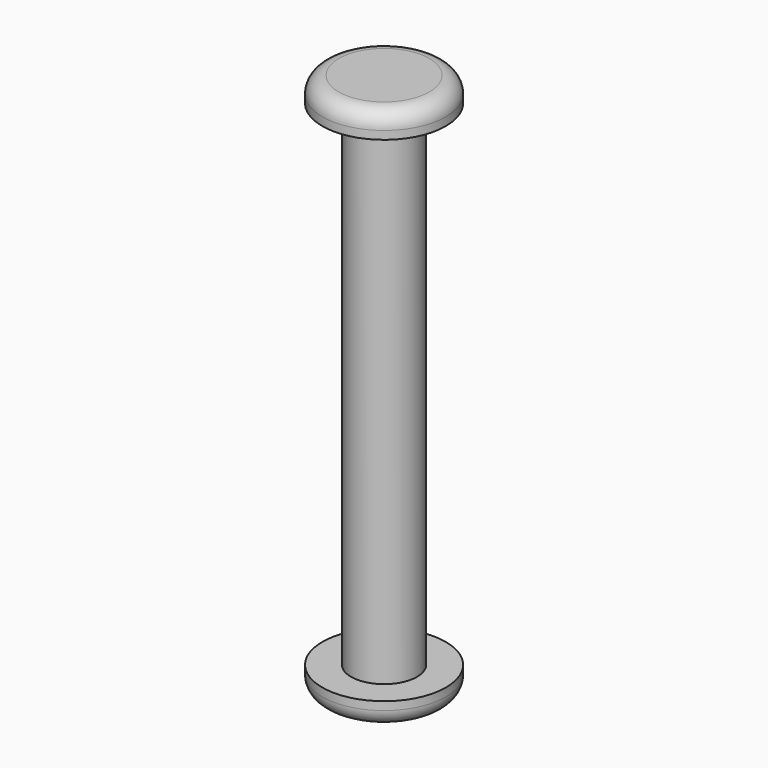
from build123d import *

# Parameters (mm, degrees)
F0_R     = 7.5
F1_DEPTH = 3
F2_R     = 4
F3_DEPTH = 60
F4_R     = 7.5
F5_DEPTH = 3
F6_R     = 2


with BuildPart() as f1:
    # F0 (on Top) → F1 (new body)
    with BuildSketch(Plane.XY):
        Circle(F0_R)
    extrude(amount=F1_DEPTH)

    # F2 (on face) → F3 (join)
    with BuildSketch(Plane.XY.offset(3)):
        Circle(F2_R)
    extrude(amount=F3_DEPTH)

    # F4 (on face) → F5 (join)
    with BuildSketch(Plane.XY.offset(63)):
        Circle(F4_R)
    extrude(amount=F5_DEPTH)

    # F6
    f6_edges = [f1.edges().sort_by_distance(p)[0] for p in [
        (-7.5, 0, 66),
        (-7.5, 0, 0),
    ]]
    fillet(f6_edges, radius=F6_R)


solid = f1.part
